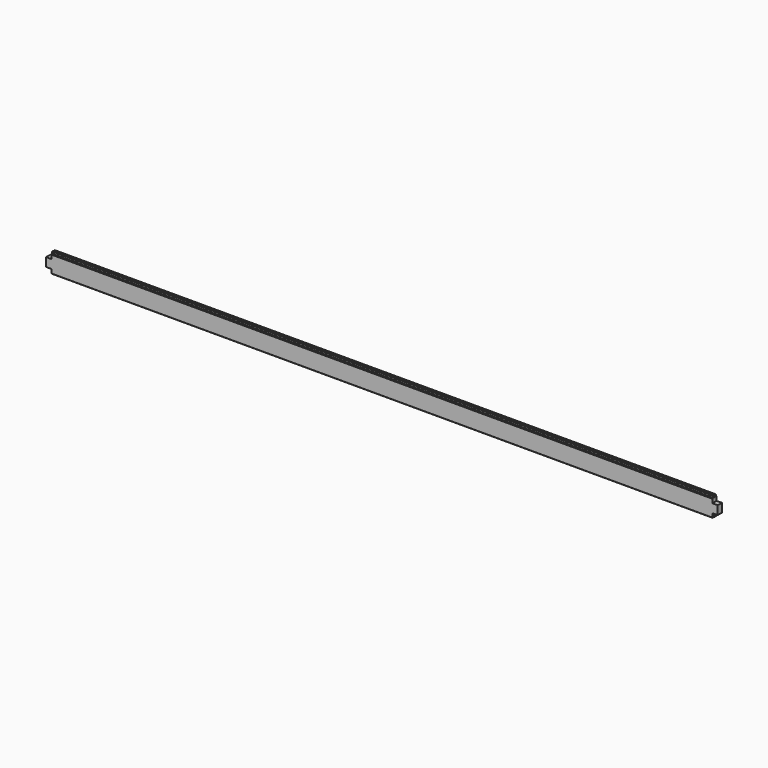
from build123d import *

# Parameters (mm, degrees)
F1_DEPTH = 2550
F2_W     = 80
F2_H     = 66
F3_DEPTH = 50


with BuildPart() as f1:
    # F0 (on Right) → F1 (new body, symmetric)
    with BuildSketch(Plane.YZ):
        Polygon((20, -70), (20, 56), (17, 59), (12, 59), (12, 73), (4, 73), (4, 59), (-4, 59), (-4, 73), (-12, 73), (-12, 59), (-17, 59), (-20, 56), (-20, -70), (-17, -73), (-12, -73), (-12, -59), (-4, -59), (-4, -73), (4, -73), (4, -59), (12, -59), (12, -73), (17, -73), align=None)
    extrude(amount=F1_DEPTH, both=True)

    # F2 (on Front) → F3 (cut, symmetric)
    with BuildSketch(Plane.XZ):
        with Locations((-2550, 59)):
            Rectangle(F2_W, F2_H)
        with Locations((-2550, -73)):
            Rectangle(F2_W, F2_H)
        with Locations((2550, 59)):
            Rectangle(F2_W, F2_H)
        with Locations((2550, -73)):
            Rectangle(F2_W, F2_H)
    extrude(amount=F3_DEPTH, both=True, mode=Mode.SUBTRACT)


solid = f1.part
